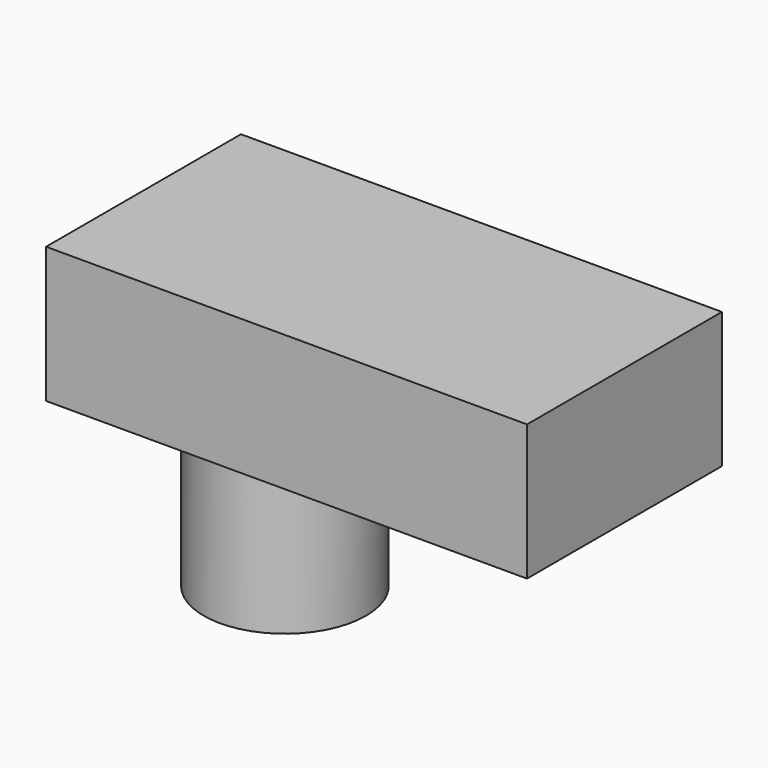
from build123d import *

# Parameters (mm, degrees)
F0_W     = 170.941364
F0_H     = 86.583007
F1_DEPTH = 48.26
F2_R     = 28.846141
F3_DEPTH = 109.22


with BuildPart() as f1:
    # F0 (on Top) → F1 (new body)
    with BuildSketch(Plane.XY):
        with Locations((-48.911462, -18.698248)):
            Rectangle(F0_W, F0_H)
        with Locations((-48.911462, -18.698248)):
            Rectangle(F0_W, F0_H)
    extrude(amount=F1_DEPTH)

    # F2 (on face) → F3 (join)
    with BuildSketch(Plane.XY.offset(48.26)):
        with Locations((-86.382292, -15.899405)):
            Circle(F2_R)
    extrude(amount=-F3_DEPTH)


solid = f1.part
